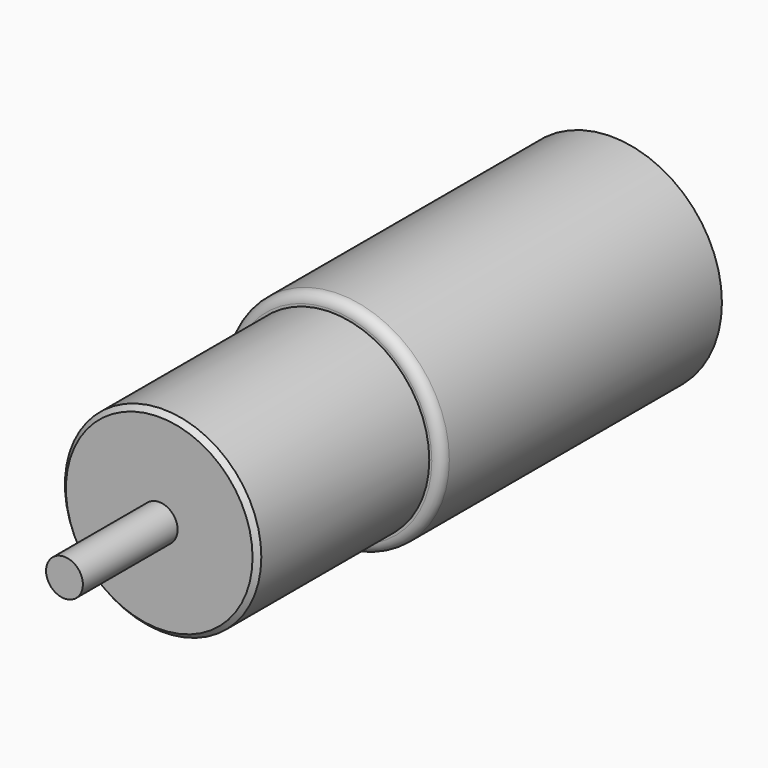
from build123d import *

# Parameters (mm, degrees)
F0_R     = 18
F1_DEPTH = 57.1
F2_R     = 16
F3_DEPTH = 35
F4_R     = 1.5875
F5_R     = 3
F6_DEPTH = 19.3
F7_SIZE  = 0.79375


with BuildPart() as f1:
    # F0 (on Front) → F1 (new body)
    with BuildSketch(Plane.XZ):
        Circle(F0_R)
    extrude(amount=F1_DEPTH)

    # F2 (on face) → F3 (join)
    with BuildSketch(Plane.XZ.offset(57.1)):
        Circle(F2_R)
    extrude(amount=F3_DEPTH)

    # F4
    f4_edges = [f1.edges().sort_by_distance(p)[0] for p in [
        (-18, -57.1, 0),
    ]]
    fillet(f4_edges, radius=F4_R)

    # F5 (on face) → F6 (join)
    with BuildSketch(Plane.XZ.offset(92.1)):
        Circle(F5_R)
    extrude(amount=F6_DEPTH)

    # F7
    f7_edges = [f1.edges().sort_by_distance(p)[0] for p in [
        (-16, -92.1, 0),
    ]]
    chamfer(f7_edges, length=F7_SIZE)


solid = f1.part
